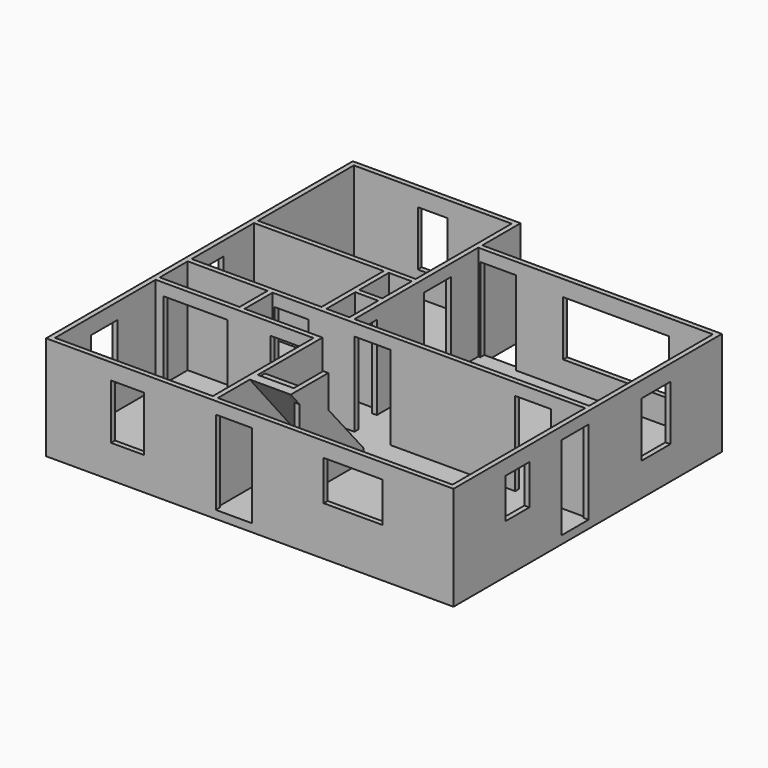
from build123d import *

# Parameters (mm, degrees)
F0_W           = 4013.2
F0_H           = 3200.4
F0_W_2         = 914.4
F0_W_3         = 2032
F0_H_2         = 889
F0_W_4         = 3302
F0_H_3         = 1981.2
F0_W_5         = 584.2
F0_H_4         = 914.4
F0_H_5         = 939.8
F0_H_6         = 3048
F0_W_6         = 5969
F0_H_7         = 3937
F1_DEPTH       = 2438.4
F2_W           = 914.4
F2_H           = 1778
F3_DEPTH       = 203.2
F4_W           = 863.6
F4_H           = 2133.6
F4_W_2         = 762
F4_H_2         = 1016
F5_DEPTH       = 127
F6_W           = 914.4
F6_H           = 2133.6
F7_DEPTH       = 127
F9_DEPTH       = 127
F10_W          = 1498.6
F10_H          = 1016
F10_W_2        = 914.4
F10_H_2        = 2133.6
F11_DEPTH      = 127
F12_W          = 914.4
F12_H          = 1397
F13_DEPTH      = 127
F14_W          = 914.4
F14_H          = 2133.6
F14_W_2        = 2692.4
F14_H_2        = 1397
F15_DEPTH      = 127
F15_DEPTH_BACK = 25.4
F16_W          = 609.6
F16_H          = 2133.6
F16_W_2        = 863.6
F17_DEPTH      = 127
F18_W          = 711.2
F18_H          = 1016
F19_DEPTH      = 127
F20_W          = 863.6
F20_H          = 2133.6
F21_DEPTH      = 127
F22_W          = 863.6
F22_H          = 2133.6
F22_W_2        = 1625.6
F23_DEPTH      = 127
F24_W          = 838.2
F24_H          = 1397
F25_DEPTH      = 127
F26_W          = 838.2
F26_H          = 1397
F27_DEPTH      = 127
F28_W          = 914.4
F28_H          = 2438.4
F29_DEPTH      = 127
F35_DEPTH      = 914.4
F31_DEPTH      = 127
F32_W          = 762
F32_H          = 1397
F33_DEPTH      = 127


with BuildPart() as f1:
    # F0 (on Top) → F1 (new body)
    with BuildSketch(Plane.XY):
        Polygon((0, 9753.6), (0, 0), (10363.2, 0), (10363.2, 8534.4), (4267.2, 8534.4), (4267.2, 9753.6), align=None)
        with Locations((2133.6, 1727.2)):
            Rectangle(F0_W, F0_H, mode=Mode.SUBTRACT)
        with Locations((4724.4, 1727.2)):
            Rectangle(F0_W_2, F0_H, mode=Mode.SUBTRACT)
        with Locations((1143, 3898.9)):
            Rectangle(F0_W_3, F0_H_2, mode=Mode.SUBTRACT)
        Polygon((5308.6, 3454.4), (2286, 3454.4), (2286, 4343.4), (10236.2, 4343.4), (10236.2, 127), (5308.6, 127), align=None, mode=Mode.SUBTRACT)
        with Locations((1778, 5461)):
            Rectangle(F0_W_4, F0_H_3, mode=Mode.SUBTRACT)
        with Locations((3848.1, 4927.6)):
            Rectangle(F0_W_5, F0_H_4, mode=Mode.SUBTRACT)
        with Locations((3848.1, 5981.7)):
            Rectangle(F0_W_5, F0_H_5, mode=Mode.SUBTRACT)
        with Locations((2133.6, 8102.6)):
            Rectangle(F0_W, F0_H_6, mode=Mode.SUBTRACT)
        with Locations((7251.7, 6438.9)):
            Rectangle(F0_W_6, F0_H_7, mode=Mode.SUBTRACT)
    extrude(amount=F1_DEPTH)

    # F2 (on Top) → F3 (join)
    with BuildSketch(Plane.XY):
        Polygon((0, 9753.6), (0, 0), (10363.2, 0), (10363.2, 8534.4), (4267.2, 8534.4), (4267.2, 9753.6), align=None)
        with Locations((4724.4, 2311.4)):
            Rectangle(F2_W, F2_H, mode=Mode.SUBTRACT)
    extrude(amount=-F3_DEPTH)

    # F4 (on face) → F5 (cut, through all)
    with BuildSketch(Plane(origin=(10236.2, 0, 0), x_dir=(0, -1, 0), z_dir=(-1, 0, 0))):
        with Locations((-3860.8, 1066.8)):
            Rectangle(F4_W, F4_H)
        with Locations((-2032, 1549.4)):
            Rectangle(F4_W_2, F4_H_2)
    extrude(amount=-F5_DEPTH, mode=Mode.SUBTRACT)

    # F6 (on face) → F7 (cut, through all)
    with BuildSketch(Plane.XZ.offset(-4343.4)):
        with Locations((4826, 1066.8)):
            Rectangle(F6_W, F6_H)
        with Locations((8915.4, 1066.8)):
            Rectangle(F6_W, F6_H)
    extrude(amount=-F7_DEPTH, mode=Mode.SUBTRACT)

    # F8 (on face) → F9 (cut, through all)
    with BuildSketch(Plane.YZ.offset(5308.6)):
        Polygon((127, 2438.4), (127, 0), (1422.4, 0), (1422.4, 2107.259259), (1143, 2438.4), align=None)
    extrude(amount=-F9_DEPTH, mode=Mode.SUBTRACT)

    # F10 (on face) → F11 (cut, through all)
    with BuildSketch(Plane(origin=(0, 127, 0), x_dir=(-1, 0, 0), z_dir=(0, 1, 0))):
        with Locations((-7810.5, 1549.4)):
            Rectangle(F10_W, F10_H)
        with Locations((-4775.2, 1066.8)):
            Rectangle(F10_W_2, F10_H_2)
    extrude(amount=-F11_DEPTH, mode=Mode.SUBTRACT)

    # F12 (on face) → F13 (cut, through all)
    with BuildSketch(Plane(origin=(10236.2, 0, 0), x_dir=(0, -1, 0), z_dir=(-1, 0, 0))):
        with Locations((-6438.9, 1333.5)):
            Rectangle(F12_W, F12_H)
    extrude(amount=-F13_DEPTH, mode=Mode.SUBTRACT)

    # F14 (on face) → F15 (cut, two sides)
    with BuildSketch(Plane.XZ.offset(-8407.4)) as f15_sk:
        with Locations((4775.2, 1066.8)):
            Rectangle(F14_W, F14_H)
        with Locations((7772.4, 1333.5)):
            Rectangle(F14_W_2, F14_H_2)
    extrude(amount=-F15_DEPTH, mode=Mode.SUBTRACT)
    extrude(f15_sk.sketch, amount=-F15_DEPTH_BACK, mode=Mode.SUBTRACT)

    # F16 (on face) → F17 (cut, through all)
    with BuildSketch(Plane.YZ.offset(4267.2)):
        with Locations((4876.8, 1066.8)):
            Rectangle(F16_W, F16_H)
        with Locations((7112, 1066.8)):
            Rectangle(F16_W_2, F16_H)
    extrude(amount=-F17_DEPTH, mode=Mode.SUBTRACT)

    # F18 (on face) → F19 (cut, through all)
    with BuildSketch(Plane.YZ.offset(127)):
        with Locations((5130.8, 1574.8)):
            Rectangle(F18_W, F18_H)
    extrude(amount=-F19_DEPTH, mode=Mode.SUBTRACT)

    # F20 (on face) → F21 (cut, through all)
    with BuildSketch(Plane(origin=(0, 4470.4, 0), x_dir=(-1, 0, 0), z_dir=(0, 1, 0))):
        with Locations((-2768.6, 1066.8)):
            Rectangle(F20_W, F20_H)
    extrude(amount=-F21_DEPTH, mode=Mode.SUBTRACT)

    # F22 (on face) → F23 (cut, through all)
    with BuildSketch(Plane.XZ.offset(-3327.4)):
        with Locations((3479.8, 1066.8)):
            Rectangle(F22_W, F22_H)
        with Locations((1143, 1066.8)):
            Rectangle(F22_W_2, F22_H)
    extrude(amount=-F23_DEPTH, mode=Mode.SUBTRACT)

    # F24 (on face) → F25 (cut, through all)
    with BuildSketch(Plane.YZ.offset(127)):
        with Locations((1689.1, 1333.5)):
            Rectangle(F24_W, F24_H)
    extrude(amount=-F25_DEPTH, mode=Mode.SUBTRACT)

    # F26 (on face) → F27 (cut, through all)
    with BuildSketch(Plane(origin=(0, 127, 0), x_dir=(-1, 0, 0), z_dir=(0, 1, 0))):
        with Locations((-2070.1, 1333.5)):
            Rectangle(F26_W, F26_H)
    extrude(amount=-F27_DEPTH, mode=Mode.SUBTRACT)

    # F28 (on face) → F29 (cut, through all)
    with BuildSketch(Plane.XZ.offset(-3327.4)):
        with Locations((4724.4, 1219.2)):
            Rectangle(F28_W, F28_H)
    extrude(amount=-F29_DEPTH, mode=Mode.SUBTRACT)

    # F34 (on face) → F35 (join)
    with BuildSketch(Plane.YZ.offset(4267.2)):
        Polygon((3200.4, 0), (3454.4, 0), (3454.4, 264.16), (3225.8, 264.16), (3225.8, 528.32), (2997.2, 528.32), (2997.2, 792.48), (2768.6, 792.48), (2768.6, 1056.64), (2540, 1056.64), (2540, 1320.8), (2311.4, 1320.8), (2311.4, 1584.96), (2082.8, 1584.96), (2082.8, 1849.12), (1854.2, 1849.12), (1854.2, 2113.28), (1625.6, 2113.28), (1625.6, 2377.44), (1397, 2377.44), (1397, 2438.4), (1143, 2438.4), align=None)
    extrude(amount=F35_DEPTH)

    # F30 (on face) → F31 (cut, through all)
    with BuildSketch(Plane.YZ.offset(5308.6)):
        Polygon((2336.8, 1612.9), (3454.4, 304.8), (3454.4, 2438.4), (2336.8, 2438.4), align=None)
    extrude(amount=-F31_DEPTH, mode=Mode.SUBTRACT)

    # F32 (on face) → F33 (cut, through all)
    with BuildSketch(Plane.XZ.offset(-9626.6)):
        with Locations((2133.6, 1333.5)):
            Rectangle(F32_W, F32_H)
    extrude(amount=-F33_DEPTH, mode=Mode.SUBTRACT)


solid = f1.part
